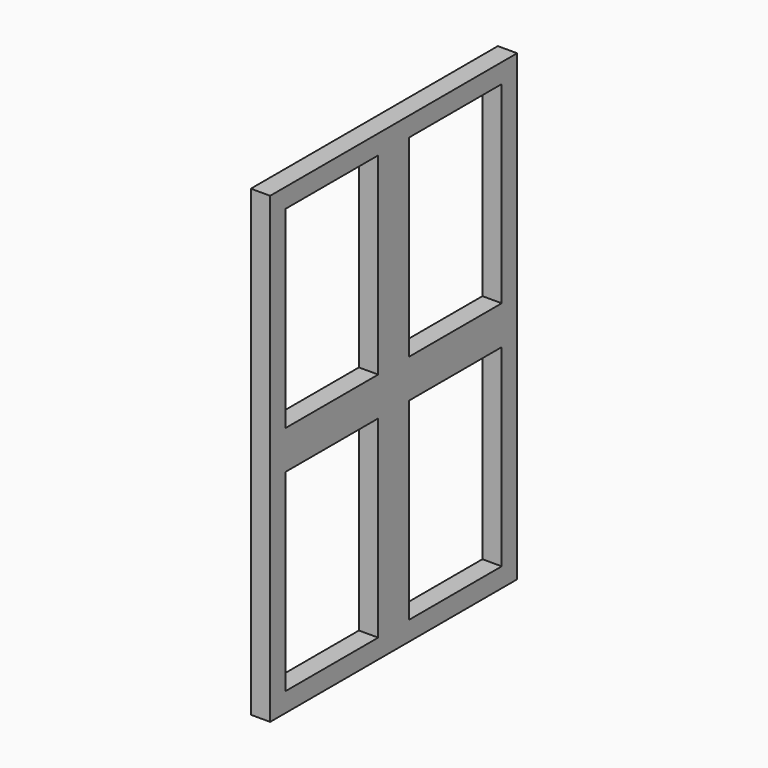
from build123d import *

# Parameters (mm, degrees)
F0_W     = 80
F0_H     = 120
F0_W_2   = 10
F0_H_2   = 50
F0_W_3   = 30
F0_H_3   = 10
F1_DEPTH = 5


with BuildPart() as f1:
    # F0 (on Right) → F1 (new body)
    with BuildSketch(Plane.YZ):
        Rectangle(F0_W, F0_H)
        Polygon((35, -5), (35, -55), (5, -55), (-5, -55), (-35, -55), (-35, -5), (-35, 5), (-35, 55), (-5, 55), (5, 55), (35, 55), (35, 5), align=None, mode=Mode.SUBTRACT)
        with Locations((0, -30)):
            Rectangle(F0_W_2, F0_H_2)
        with Locations((0, 30)):
            Rectangle(F0_W_2, F0_H_2)
        with Locations((-20, 0)):
            Rectangle(F0_W_3, F0_H_3)
        with Locations((20, 0)):
            Rectangle(F0_W_3, F0_H_3)
        Rectangle(F0_W_2, F0_H_3)
    extrude(amount=F1_DEPTH)


solid = f1.part
